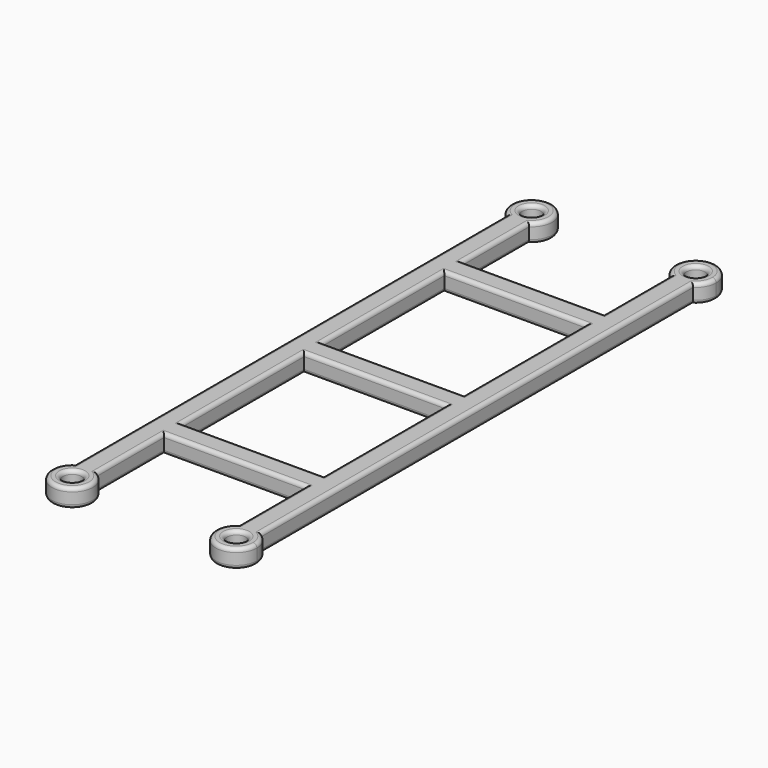
from build123d import *

# Parameters (mm, degrees)
F1_R     = 2.5
F2_DEPTH = 5
F5_R     = 1


with BuildPart() as f2:
    # F1 (on Top) → F2 (new body)
    with BuildSketch(Plane.XY):
        with BuildLine():
            Line((0, 3), (0, 0))
            Line((0, 0), (25, 0))
            Line((25, 0), (25, 50))
            Line((25, 50), (25, 72.3902277714))
            ThreePointArc((25, 72.3902277714), (22, 71.5), (19, 72.3902277714))
            Line((19, 72.3902277714), (19, 50))
            Line((19, 50), (0, 50))
            Line((0, 50), (0, 44))
            Line((0, 44), (19, 44))
            Line((19, 44), (19, 3))
            Line((19, 3), (0, 3))
        make_face()
        with BuildLine():
            Line((25, 80), (25, 72.3902277714))
            ThreePointArc((25, 72.3902277714), (26.8347699015, 74.3779778796), (27.5, 77))
            ThreePointArc((27.5, 77), (19.3779778796, 81.8347699015), (19, 72.3902277714))
            Line((19, 72.3902277714), (19, 80))
            Line((19, 80), (25, 80))
        make_face()
        with BuildLine():
            ThreePointArc((19, 72.3902277714), (22, 71.5), (25, 72.3902277714))
            Line((25, 72.3902277714), (25, 80))
            Line((25, 80), (19, 80))
            Line((19, 80), (19, 72.3902277714))
        make_face()
        with Locations((22, 77)):
            Circle(F1_R, mode=Mode.SUBTRACT)
    extrude(amount=F2_DEPTH)

    # F3: F2 across plane


with BuildPart() as f2_1:
    add(f2.part)
    add(f2.part.mirror(Plane.XZ))

    # F4: F2 across plane


with BuildPart() as f2_2:
    add(f2_1.part)
    add(f2_1.part.mirror(Plane.YZ))

    # F5
    f5_edges = [f2_2.edges().sort_by_distance(p)[0] for p in [
        (0, -3, 0),
        (19, -23.5, 0),
        (0, -44, 0),
        (-19, -23.5, 0),
        (0, -50, 0),
        (19, -61.195114, 0),
        (22, -82.5, 0),
        (25, 0, 0),
        (22, 82.5, 0),
        (19, 61.195114, 0),
        (0, 50, 0),
        (-19, 61.195114, 0),
        (-22, 82.5, 0),
        (-25, 0, 0),
        (-22, -82.5, 0),
        (-19, -61.195114, 0),
        (0, 44, 0),
        (19, 23.5, 0),
        (0, 3, 0),
        (-19, 23.5, 0),
        (19.5, 77, 0),
        (19.5, -77, 0),
        (-19.5, -77, 0),
        (-19.5, 77, 0),
        (0, -3, 5),
        (19, -23.5, 5),
        (0, -44, 5),
        (-19, -23.5, 5),
        (0, -50, 5),
        (19, -61.195114, 5),
        (22, -82.5, 5),
        (25, 0, 5),
        (22, 82.5, 5),
        (19, 61.195114, 5),
        (0, 50, 5),
        (-19, 61.195114, 5),
        (-22, 82.5, 5),
        (-25, 0, 5),
        (-22, -82.5, 5),
        (-19, -61.195114, 5),
        (0, 44, 5),
        (19, 23.5, 5),
        (0, 3, 5),
        (-19, 23.5, 5),
        (19.5, 77, 5),
        (19.5, -77, 5),
        (-19.5, -77, 5),
        (-19.5, 77, 5),
    ]]
    fillet(f5_edges, radius=F5_R)


solid = f2_2.part
